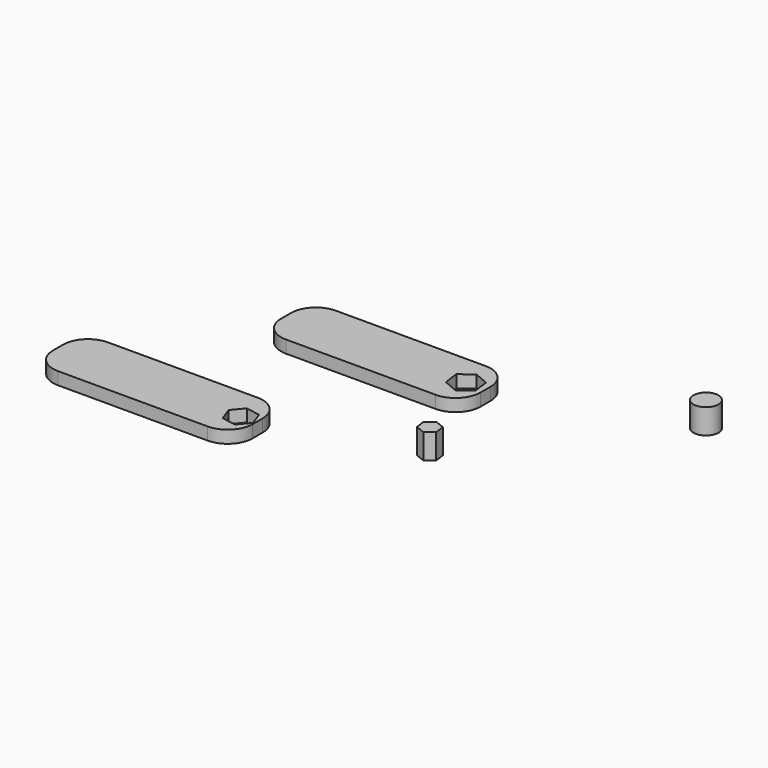
from build123d import *

# Parameters (mm, degrees)
F1_DEPTH  = 2.5
F2_R      = 3.5576689951
F3_DEPTH  = 20
F4_DEPTH  = 20
F6_DEPTH  = 2.5
F8_DEPTH  = 6
F9_R      = 5
F10_DEPTH = 5
F12_DEPTH = 5


with BuildPart() as f1:
    # F0 (on Top) → F1 (new body, symmetric)
    with BuildSketch(Plane.XY):
        with BuildLine():
            ThreePointArc((40, 2.5), (37.0710678119, 9.5710678119), (30, 12.5))
            Line((30, 12.5), (-30, 12.5))
            ThreePointArc((-30, 12.5), (-37.0710678119, 9.5710678119), (-40, 2.5))
            Line((-40, 2.5), (-40, -2.5))
            ThreePointArc((-40, -2.5), (-37.0710678119, -9.5710678119), (-30, -12.5))
            Line((-30, -12.5), (30, -12.5))
            ThreePointArc((30, -12.5), (37.0710678119, -9.5710678119), (40, -2.5))
            Line((40, -2.5), (40, 2.5))
        make_face()
    extrude(amount=F1_DEPTH, both=True)

    # F2 (on face) → F3 (cut)
    with BuildSketch(Plane(origin=(0, 0, -2.5), x_dir=(1, 0, 0), z_dir=(0, 0, -1))):
        Polygon((32.900771254, 6.2504104384), (27.099228746, 3.7981559477), (26.3221721775, -2.4522544906), (31.3466581169, -6.2504104384), (37.1482006249, -3.7981559477), (37.9252571934, 2.4522544906), align=None)
        with Locations((32.1237146854, 0)):
            Circle(F2_R, mode=Mode.SUBTRACT)
    extrude(amount=-F3_DEPTH, mode=Mode.SUBTRACT)

    # F4 (cut): a face of the model
    f4_faces = [f1.faces().sort_by_distance(p)[0] for p in [
        (32.1237146854, 0, -2.5),
    ]]
    extrude(f4_faces, amount=-F4_DEPTH, mode=Mode.SUBTRACT)


with BuildPart() as f6:
    # F5 (on Top) → F6 (new body, symmetric)
    with BuildSketch(Plane.XY):
        with BuildLine():
            ThreePointArc((-82.2915453091, -63.8202903937), (-79.362613121, -70.8913582056), (-72.2915453091, -73.8202903937))
            Line((-72.2915453091, -73.8202903937), (-12.2915453091, -73.8202903937))
            ThreePointArc((-12.2915453091, -73.8202903937), (-5.2204774973, -70.8913582056), (-2.2915453091, -63.8202903937))
            Line((-2.2915453091, -63.8202903937), (-2.2915453091, -58.8202903937))
            ThreePointArc((-2.2915453091, -58.8202903937), (-5.2204774973, -51.7492225819), (-12.2915453091, -48.8202903937))
            Line((-12.2915453091, -48.8202903937), (-72.2915453091, -48.8202903937))
            ThreePointArc((-72.2915453091, -48.8202903937), (-79.362613121, -51.7492225819), (-82.2915453091, -58.8202903937))
            Line((-82.2915453091, -58.8202903937), (-82.2915453091, -63.8202903937))
        make_face()
    extrude(amount=F6_DEPTH, both=True)

    # F7 (on face) → F8 (cut)
    with BuildSketch(Plane.XY.offset(2.5)):
        Polygon((-10.4293150007, -56.5985203377), (-14.1537756176, -61.0420604498), (-12.1677873062, -66.4893080154), (-6.4573383779, -67.493015469), (-2.732877761, -63.0494753569), (-4.7188660724, -57.6022277912), align=None)
    extrude(amount=-F8_DEPTH, mode=Mode.SUBTRACT)


with BuildPart() as f10:
    # F9 (on Top) → F10 (new body, symmetric)
    with BuildSketch(Plane.XY):
        with Locations((101.1897652568, 33.9193832354)):
            Circle(F9_R)
    extrude(amount=F10_DEPTH, both=True)


with BuildPart() as f12:
    # F11 (on Top) → F12 (new body, symmetric)
    with BuildSketch(Plane.XY):
        Polygon((42.0450188959, -36.9367471334), (45.7976388735, -38.4371392945), (48.9733265895, -35.9374711437), (48.3963943278, -31.9374108318), (44.6437743502, -30.4370186707), (41.4680866343, -32.9366868215), align=None)
    extrude(amount=F12_DEPTH, both=True)


solid = Compound([f1.part, f6.part, f10.part, f12.part])
